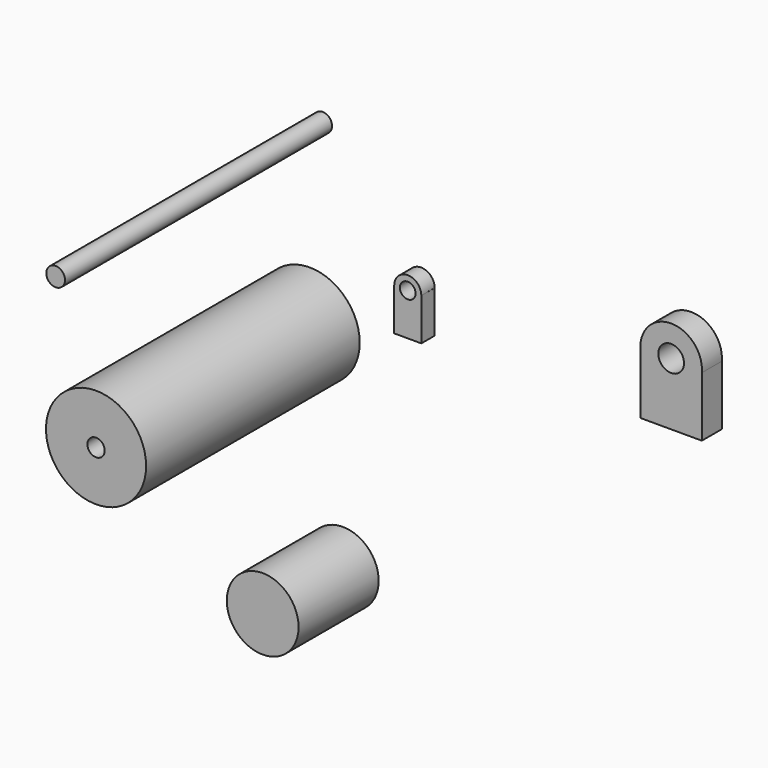
from build123d import *

# Parameters (mm, degrees)
F0_R      = 9.525
F1_DEPTH  = 50.8
F3_D      = 3.3
F4_R      = 1.78562
F5_DEPTH  = 63.5
F6_R      = 6.8293171729
F7_DEPTH  = 19.05
F8_R      = 2.4462597951
F9_DEPTH  = 4.7498
F10_R     = 1.4911245413
F11_DEPTH = 3.175


with BuildPart() as f1:
    # F0 (on Front) → F1 (new body)
    with BuildSketch(Plane.XZ):
        with Locations((-41.9854447246, 12.4768065289)):
            Circle(F0_R)
    extrude(amount=F1_DEPTH)

    # F3 (through all)
    with Locations(Plane.XZ.offset(50.8)):
        with Locations((-41.9854447246, 12.4768065289)):
            Hole(F3_D / 2)


with BuildPart() as f5:
    # F4 (on Front) → F5 (new body)
    with BuildSketch(Plane.XZ):
        with Locations((-39.5124815404, 47.0624677837)):
            Circle(F4_R)
    extrude(amount=F5_DEPTH)


with BuildPart() as f7:
    # F6 (on Front) → F7 (new body)
    with BuildSketch(Plane.XZ):
        with Locations((-35.6809161603, -26.2388456613)):
            Circle(F6_R)
    extrude(amount=F7_DEPTH)


with BuildPart() as f9:
    # F8 (on Front) → F9 (new body)
    with BuildSketch(Plane.XZ):
        with BuildLine():
            Line((24.7555691749, 31.7871444005), (24.7555691749, 20.3985888511))
            Line((24.7555691749, 20.3985888511), (36.4402011037, 20.3985888511))
            Line((36.4402011037, 20.3985888511), (36.4402011037, 31.7871444005))
            ThreePointArc((36.4402011037, 31.7871444005), (30.5978851393, 38.1444387742), (24.7555691749, 31.7871444005))
        make_face()
        with Locations((30.5978851393, 32.2812646627)):
            Circle(F8_R, mode=Mode.SUBTRACT)
    extrude(amount=F9_DEPTH)


with BuildPart() as f11:
    # F10 (on Front) → F11 (new body)
    with BuildSketch(Plane.XZ):
        with BuildLine():
            Line((-23.3555076022, 26.3022053987), (-23.3622975647, 26.3022053987))
            Line((-23.3622975647, 26.3022053987), (-23.3622975647, 18.2888861746))
            Line((-23.3622975647, 18.2888861746), (-18.1952770799, 18.2888861746))
            Line((-18.1952770799, 18.2888861746), (-18.1952770799, 26.3022053987))
            Line((-18.1952770799, 26.3022053987), (-18.2020670424, 26.3022053987))
            ThreePointArc((-18.2020670424, 26.3022053987), (-20.7787873223, 28.8789256786), (-23.3555076022, 26.3022053987))
        make_face()
        with Locations((-20.7787873223, 26.3022053987)):
            Circle(F10_R, mode=Mode.SUBTRACT)
    extrude(amount=F11_DEPTH)


solid = Compound([f1.part, f5.part, f7.part, f9.part, f11.part])
